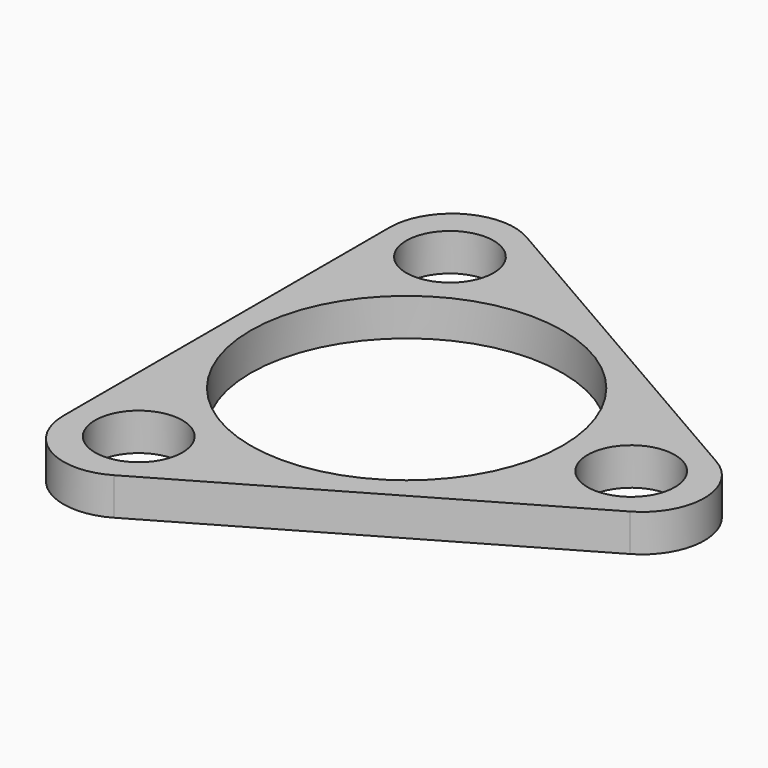
from build123d import *

# Parameters (mm, degrees)
F0_R     = 7
F0_R_2   = 25
F1_DEPTH = 6
F2_R     = 10


with BuildPart() as f1:
    # F0 (on Top) → F1 (new body)
    with BuildSketch(Plane.XY):
        Polygon((-28.867513, 50), (-28.867513, -50), (57.735027, 0), align=None)
        with Locations((-18, -31.176915)):
            Circle(F0_R, mode=Mode.SUBTRACT)
        Circle(F0_R_2, mode=Mode.SUBTRACT)
        with Locations((-18, 31.176915)):
            Circle(F0_R, mode=Mode.SUBTRACT)
        with Locations((36, 0)):
            Circle(F0_R, mode=Mode.SUBTRACT)
    extrude(amount=F1_DEPTH)

    # F2
    f2_edges = [f1.edges().sort_by_distance(p)[0] for p in [
        (-28.867513, -50, 3),
        (57.735027, 0, 3),
        (-28.867513, 50, 3),
    ]]
    fillet(f2_edges, radius=F2_R)


solid = f1.part
